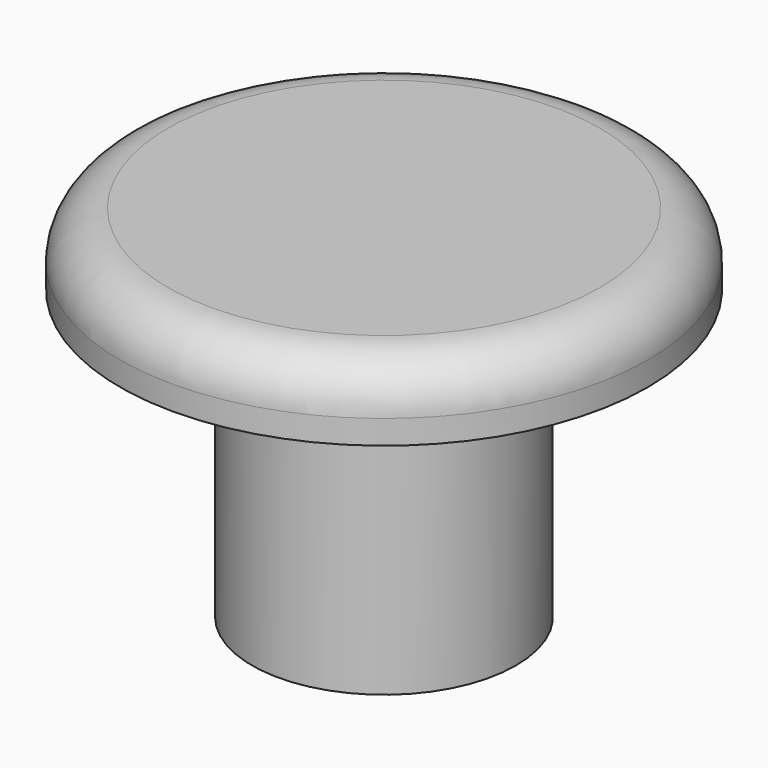
from build123d import *

# Parameters (mm, degrees)
F0_R     = 11
F0_R_2   = 5.5
F1_DEPTH = 3
F2_DEPTH = 12
F3_R     = 2


with BuildPart() as f1:
    # F0 (on Top) → F1 (new body)
    with BuildSketch(Plane.XY):
        Circle(F0_R)
        Circle(F0_R_2, mode=Mode.SUBTRACT)
        Circle(F0_R_2)
    extrude(amount=F1_DEPTH)

    # F0 (on Top) → F2 (join)
    with BuildSketch(Plane.XY):
        Circle(F0_R_2)
    extrude(amount=-F2_DEPTH)

    # F3
    f3_edges = [f1.edges().sort_by_distance(p)[0] for p in [
        (-11, 0, 3),
    ]]
    fillet(f3_edges, radius=F3_R)


solid = f1.part
